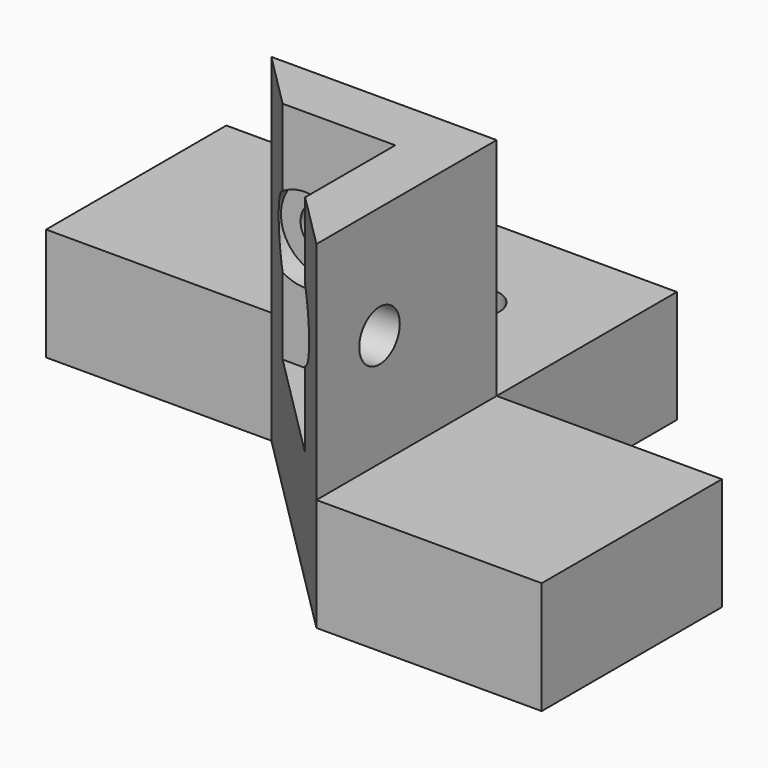
from build123d import *

# Parameters (mm, degrees)
F0_R      = 2.25
F1_DEPTH  = 10
F3_DEPTH  = 20
F4_R      = 2.25
F5_DEPTH  = 5
F6_R      = 2.01
F7_DEPTH  = 5
F8_R      = 3.75
F9_DEPTH  = 2
F10_R     = 3.75
F11_DEPTH = 2


with BuildPart() as f1:
    # F0 (on Top) → F1 (new body)
    with BuildSketch(Plane.XY):
        Polygon((28.65822, 18.559446), (28.65822, -1.440554), (48.65822, -1.440554), (68.65822, -21.440554), (88.65822, -21.440554), (88.65822, -1.440554), (68.65822, -1.440554), (68.65822, 18.559446), align=None)
        with Locations((43.65822, 8.559446)):
            Circle(F0_R, mode=Mode.SUBTRACT)
        with Locations((58.65822, 8.559446)):
            Circle(F0_R, mode=Mode.SUBTRACT)
    extrude(amount=F1_DEPTH)

    # F2 (on face) → F3 (join)
    with BuildSketch(Plane.XY.offset(10)):
        Polygon((68.65822, -21.440554), (68.65822, -1.440554), (48.65822, -1.440554), (53.65822, -6.440554), (58.65822, -6.440554), (63.65822, -6.440554), (63.65822, -11.440554), (63.65822, -16.440554), align=None)
    extrude(amount=F3_DEPTH)

    # F4 (on face) → F5 (cut)
    with BuildSketch(Plane.YZ.offset(68.65822)):
        with Locations((-14.440554, 20)):
            Circle(F4_R)
    extrude(amount=-F5_DEPTH, mode=Mode.SUBTRACT)

    # F6 (on face) → F7 (cut)
    with BuildSketch(Plane(origin=(0, -1.440554, 0), x_dir=(-1, 0, 0), z_dir=(0, 1, 0))):
        with Locations((-55.65822, 20)):
            Circle(F6_R)
    extrude(amount=-F7_DEPTH, mode=Mode.SUBTRACT)

    # F8 (on face) → F9 (cut)
    with BuildSketch(Plane(origin=(63.65822, 0, 0), x_dir=(0, -1, 0), z_dir=(-1, 0, 0))):
        with Locations((14.440554, 20)):
            Circle(F8_R)
    extrude(amount=-F9_DEPTH, mode=Mode.SUBTRACT)

    # F10 (on face) → F11 (cut)
    with BuildSketch(Plane.XZ.offset(6.440554)):
        with Locations((55.65822, 20)):
            Circle(F10_R)
    extrude(amount=-F11_DEPTH, mode=Mode.SUBTRACT)


solid = f1.part
